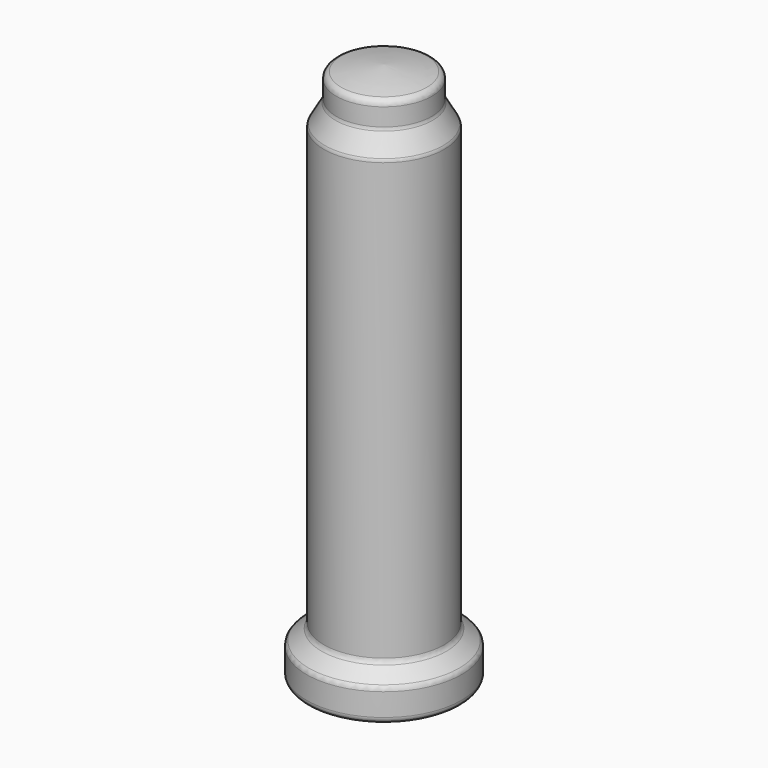
from build123d import *

# Parameters (mm, degrees)
F2_R = 1.6


with BuildPart() as f1:
    # F0 (on Front) → F1 (revolve)
    with BuildSketch(Plane.XZ):
        with BuildLine():
            ThreePointArc((11.899113, 133.12699), (5.991112, 134.327492), (0, 135))
            Line((0, 135), (0, 121.629106))
            Line((0, 121.629106), (10.75, 121.629106))
            Line((10.75, 121.629106), (10.75, 0))
            Line((10.75, 0), (19.325, 0))
            Line((19.325, 0), (19.325, 8))
            Line((19.325, 8), (15, 11.629106))
            Line((15, 11.629106), (15, 121.629106))
            Line((15, 121.629106), (11.899113, 127))
            Line((11.899113, 127), (11.899113, 133.12699))
        make_face()
    revolve(axis=Axis((0, 0, 67.5), (0, 0, 1)))

    # F2
    f2_edges = [f1.edges().sort_by_distance(p)[0] for p in [
        (-11.899113, 0, 133.12699),
        (-11.899113, 0, 127),
        (-15, 0, 121.629106),
        (-15, 0, 11.629106),
        (-19.325, 0, 8),
        (-19.325, 0, 0),
    ]]
    fillet(f2_edges, radius=F2_R)


solid = f1.part
